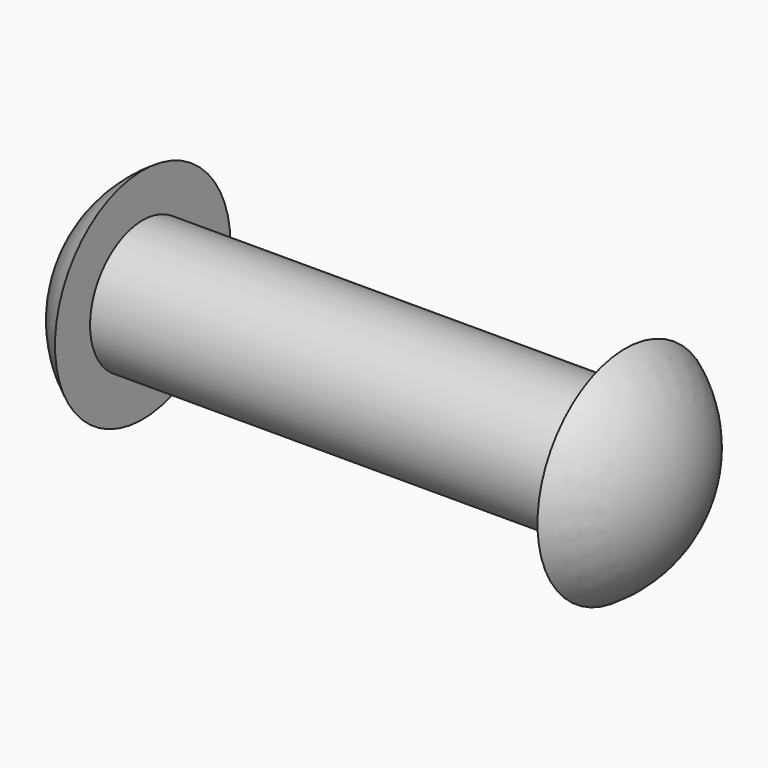
from build123d import *


with BuildPart() as f1:
    # F0 (on Top) → F1 (revolve)
    with BuildSketch(Plane.XY):
        with BuildLine():
            Line((22, 6), (0, 6))
            Line((0, 6), (-22, 6))
            Line((-22, 6), (-22, 10))
            ThreePointArc((-22, 10), (-26.034284, 5.706356), (-27.5, 0))
            Line((-27.5, 0), (27.5, 0))
            ThreePointArc((27.5, 0), (26.034284, 5.706356), (22, 10))
            Line((22, 10), (22, 6))
        make_face()
    revolve(axis=Axis((-15.628844, 0, 0), (-1, 0, 0)))


solid = f1.part
